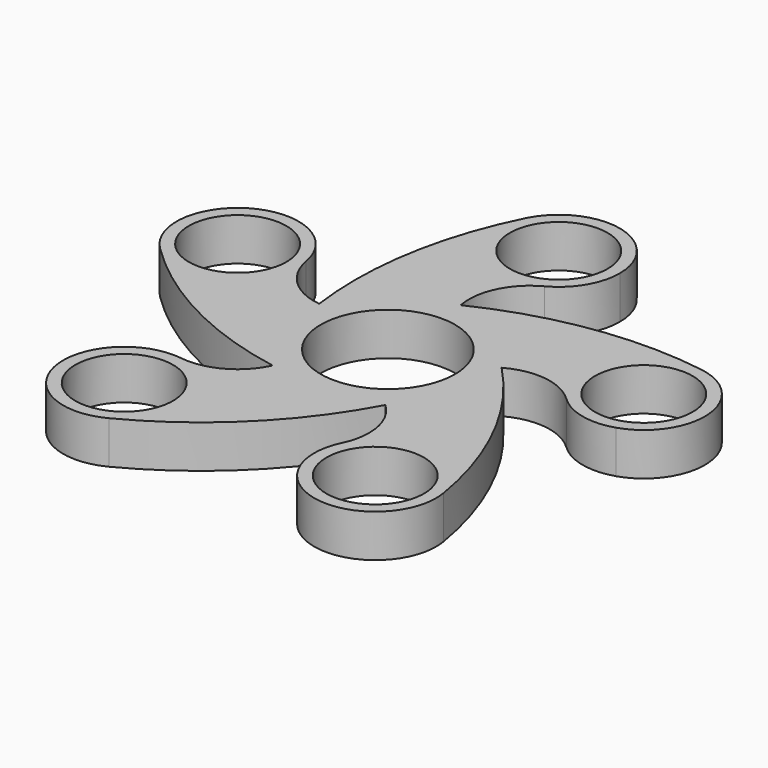
from build123d import *

# Parameters (mm, degrees)
F1_R     = 11
F1_R_2   = 8
F2_DEPTH = 7
F3_COUNT = 5


with BuildPart() as f2:
    # F1 (on Top) → F2 (new body)
    with BuildSketch(Plane.XY):
        with BuildLine():
            ThreePointArc((-14, 0), (0, -14), (14, 0))
            ThreePointArc((14, 0), (9.8994949366, 9.8994949366), (0, 14))
            ThreePointArc((0, 14), (-9.8994949366, 9.8994949366), (-14, 0))
        make_face()
        Circle(F1_R, mode=Mode.SUBTRACT)
        with BuildLine():
            ThreePointArc((-14, 0), (-9.8994949366, 9.8994949366), (0, 14))
            ThreePointArc((0, 14), (0.0928065847, 20.9641089066), (4.7098193128, 26.1785714286))
            ThreePointArc((4.7098193128, 26.1785714286), (-6.9834201124, 27.8423576834), (-8.9347861793, 39.4910573288))
            ThreePointArc((-8.9347861793, 39.4910573288), (-14.8385397391, 20.1779196855), (-14, 0))
        make_face()
        with BuildLine():
            ThreePointArc((-8.9347861793, 39.4910573288), (-6.9834201124, 27.8423576834), (4.7098193128, 26.1785714286))
            ThreePointArc((4.7098193128, 26.1785714286), (8.5760769915, 29.8569558201), (10, 35))
            ThreePointArc((10, 35), (2.307827789, 44.730052975), (-8.9347861793, 39.4910573288))
        make_face()
        with Locations((0, 35)):
            Circle(F1_R_2, mode=Mode.SUBTRACT)
    extrude(amount=F2_DEPTH)

    # F3: F2 ×5 about axis
    f3_axis = Axis((0, 0, 7), (0, 0, 1))


with BuildPart() as f2_1:
    add(f2.part)
    for i in range(1, F3_COUNT):
        add(f2.part.rotate(f3_axis, i * 360 / F3_COUNT))


solid = f2_1.part
